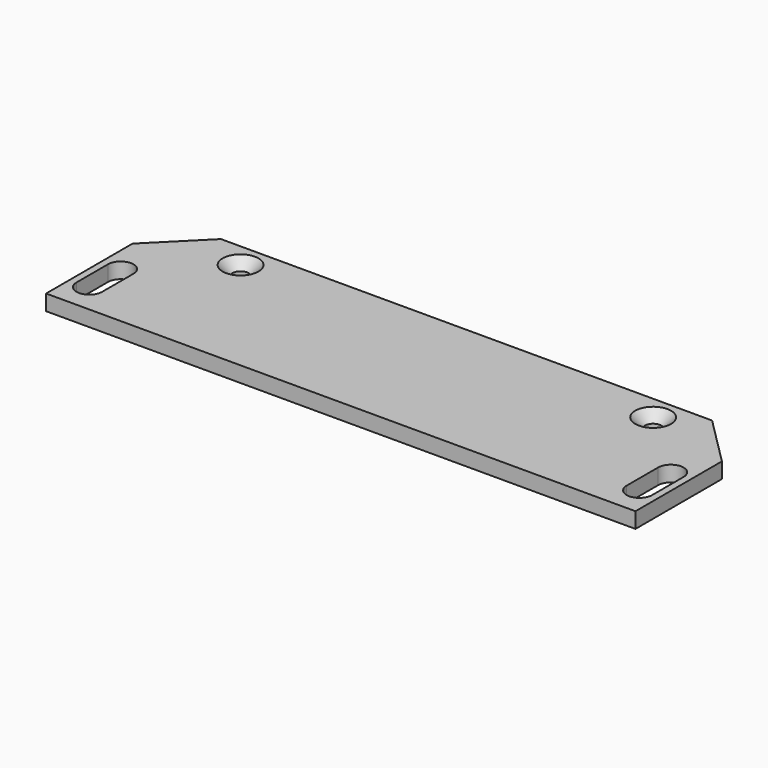
from build123d import *

# Parameters (mm, degrees)
F0_W     = 60
F0_H     = 32
F1_DEPTH = 3.175
F2_R     = 1.65
F3_DEPTH = 3.176
F4_SIZE  = 2
F5_SIZE  = 10


with BuildPart() as f1:
    # F0 (on Top) → F1 (new body)
    with BuildSketch(Plane.XY):
        with Locations((-30, 16)):
            Rectangle(F0_W, F0_H)
        with Locations((30, 16)):
            Rectangle(F0_W, F0_H)
    extrude(amount=F1_DEPTH)

    # F2 (on face) → F3 (cut, through all)
    with BuildSketch(Plane.XY.offset(3.175)):
        with BuildLine():
            ThreePointArc((-58.6, 14), (-56, 11.4), (-53.4, 14))
            ThreePointArc((-53.4, 14), (-56, 16.6), (-58.6, 14))
        make_face()
        with Locations((-42, 27)):
            Circle(F2_R)
        with Locations((42, 27)):
            Circle(F2_R)
        with BuildLine():
            ThreePointArc((53.4, 14), (56, 11.4), (58.6, 14))
            ThreePointArc((58.6, 14), (56, 16.6), (53.4, 14))
        make_face()
        with BuildLine():
            Line((-53.4, 6), (-53.4, 14))
            ThreePointArc((-53.4, 14), (-56, 11.4), (-58.6, 14))
            Line((-58.6, 14), (-58.6, 6))
            ThreePointArc((-58.6, 6), (-56, 8.6), (-53.4, 6))
        make_face()
        with BuildLine():
            Line((-58.6, 6), (-53.4, 6))
            ThreePointArc((-53.4, 6), (-56, 8.6), (-58.6, 6))
        make_face()
        with BuildLine():
            ThreePointArc((-58.6, 6), (-56, 3.4), (-53.4, 6))
            Line((-53.4, 6), (-58.6, 6))
        make_face()
        with BuildLine():
            Line((58.6, 6), (58.6, 14))
            ThreePointArc((58.6, 14), (56, 11.4), (53.4, 14))
            Line((53.4, 14), (53.4, 6))
            ThreePointArc((53.4, 6), (56, 8.6), (58.6, 6))
        make_face()
        with BuildLine():
            Line((53.4, 6), (58.6, 6))
            ThreePointArc((58.6, 6), (56, 8.6), (53.4, 6))
        make_face()
        with BuildLine():
            ThreePointArc((53.4, 6), (56, 3.4), (58.6, 6))
            Line((58.6, 6), (53.4, 6))
        make_face()
    extrude(amount=-F3_DEPTH, mode=Mode.SUBTRACT)

    # F4
    f4_edges = [f1.edges().sort_by_distance(p)[0] for p in [
        (-43.65, 27, 3.175),
        (40.35, 27, 3.175),
    ]]
    chamfer(f4_edges, length=F4_SIZE)

    # F5
    f5_edges = [f1.edges().sort_by_distance(p)[0] for p in [
        (-60, 32, 1.5875),
        (60, 32, 1.5875),
    ]]
    chamfer(f5_edges, length=F5_SIZE)


solid = f1.part
